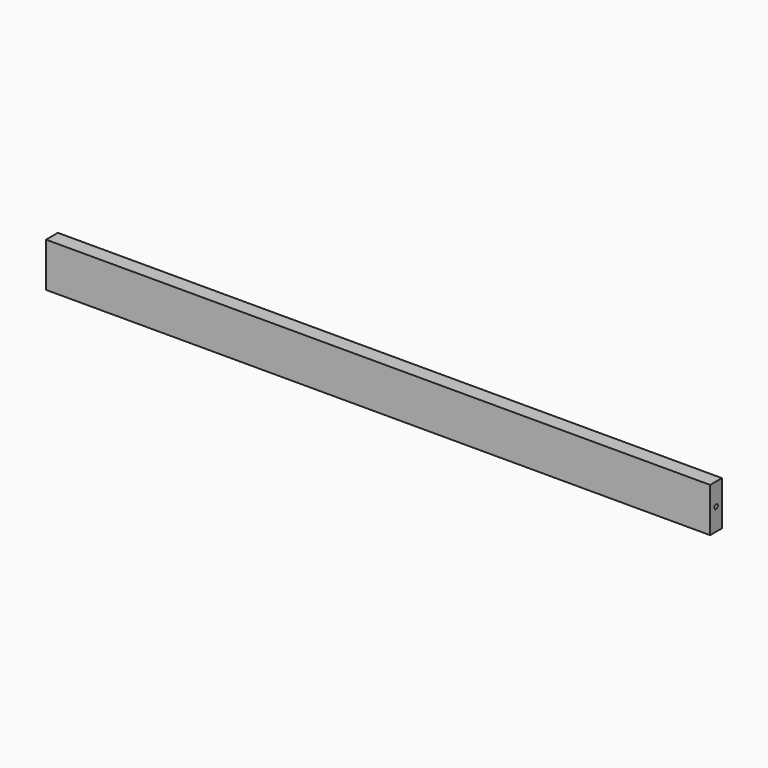
from build123d import *

# Parameters (mm, degrees)
F0_W     = 20
F0_H     = 60
F1_DEPTH = 450
F2_R     = 3
F3_DEPTH = 12
F5_R     = 3
F6_DEPTH = 15


with BuildPart() as f1:
    # F0 (on Right) → F1 (new body, symmetric)
    with BuildSketch(Plane.YZ):
        with Locations((10, 30)):
            Rectangle(F0_W, F0_H)
    extrude(amount=F1_DEPTH, both=True)

    # F2 (on face) → F3 (cut)
    with BuildSketch(Plane.YZ.offset(450)):
        with Locations((10, 30)):
            Circle(F2_R)
    extrude(amount=-F3_DEPTH, mode=Mode.SUBTRACT)

    # F5 (on face) → F6 (cut)
    with BuildSketch(Plane(origin=(-450, 0, 0), x_dir=(0, -1, 0), z_dir=(-1, 0, 0))):
        with Locations((-10, 30)):
            Circle(F5_R)
    extrude(amount=-F6_DEPTH, mode=Mode.SUBTRACT)


solid = f1.part
